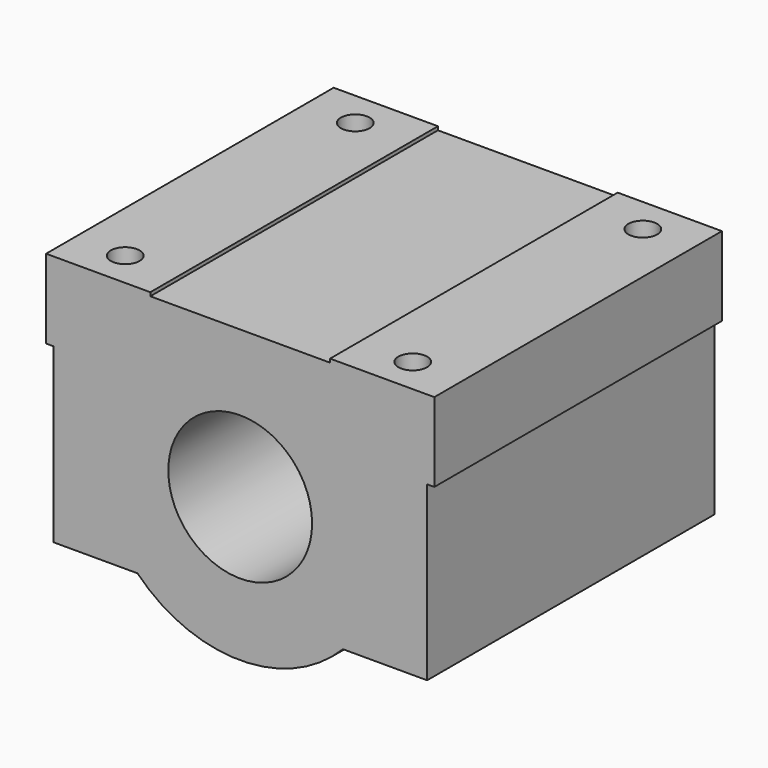
from build123d import *

# Parameters (mm, degrees)
F0_R     = 10
F1_DEPTH = 50
F2_R     = 2
F3_DEPTH = 41.001


with BuildPart() as f1:
    # F0 (on Front) → F1 (new body)
    with BuildSketch(Plane.XZ):
        with BuildLine():
            Line((14.282857, -17.5), (26, -17.5))
            Line((26, -17.5), (26, 6.5))
            Line((26, 6.5), (27, 6.5))
            Line((27, 6.5), (27, 17.5))
            Line((27, 17.5), (12.5, 17.5))
            Line((12.5, 17.5), (12.5, 17))
            Line((12.5, 17), (-12.5, 17))
            Line((-12.5, 17), (-12.5, 17.5))
            Line((-12.5, 17.5), (-27, 17.5))
            Line((-27, 17.5), (-27, 6.5))
            Line((-27, 6.5), (-26, 6.5))
            Line((-26, 6.5), (-26, -17.5))
            Line((-26, -17.5), (-14.282857, -17.5))
            ThreePointArc((-14.282857, -17.5), (0, -23.5), (14.282857, -17.5))
        make_face()
        with Locations((0, -3.5)):
            Circle(F0_R, mode=Mode.SUBTRACT)
    extrude(amount=F1_DEPTH)

    # F2 (on face) → F3 (cut, through all)
    with BuildSketch(Plane.XY.offset(17.5)):
        with Locations((20, -45)):
            Circle(F2_R)
        with Locations((-20, -45)):
            Circle(F2_R)
        with Locations((-20, -5)):
            Circle(F2_R)
        with Locations((20, -5)):
            Circle(F2_R)
    extrude(amount=-F3_DEPTH, mode=Mode.SUBTRACT)


solid = f1.part
